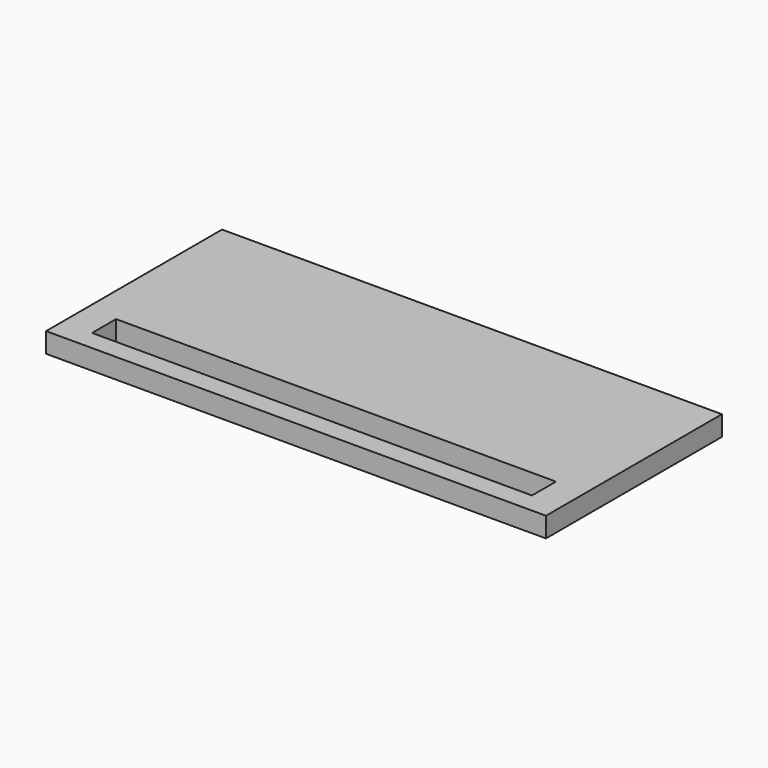
from build123d import *

# Parameters (mm, degrees)
BOX129_W     = 22
BOX129_H     = 1.5
BOX129_DEPTH = 2
BOX128_W     = 25
BOX128_H     = 11
BOX128_DEPTH = 1


with BuildPart() as longledhole004:
    # Box129 → Box129 (new body)
    with BuildSketch(Plane(origin=(1.5, 1, 0), x_dir=(1, 0, 0), z_dir=(0, 0, 1))):
        with Locations((11, 0.75)):
            Rectangle(BOX129_W, BOX129_H)
    extrude(amount=BOX129_DEPTH)


with BuildPart() as cut021:
    # Box128 → Box128 (new body)
    with BuildSketch(Plane.XY):
        with Locations((12.5, 5.5)):
            Rectangle(BOX128_W, BOX128_H)
    extrude(amount=BOX128_DEPTH)

    # Cut021: cut LongLedHole004
    add(longledhole004.part, mode=Mode.SUBTRACT)


solid = cut021.part
